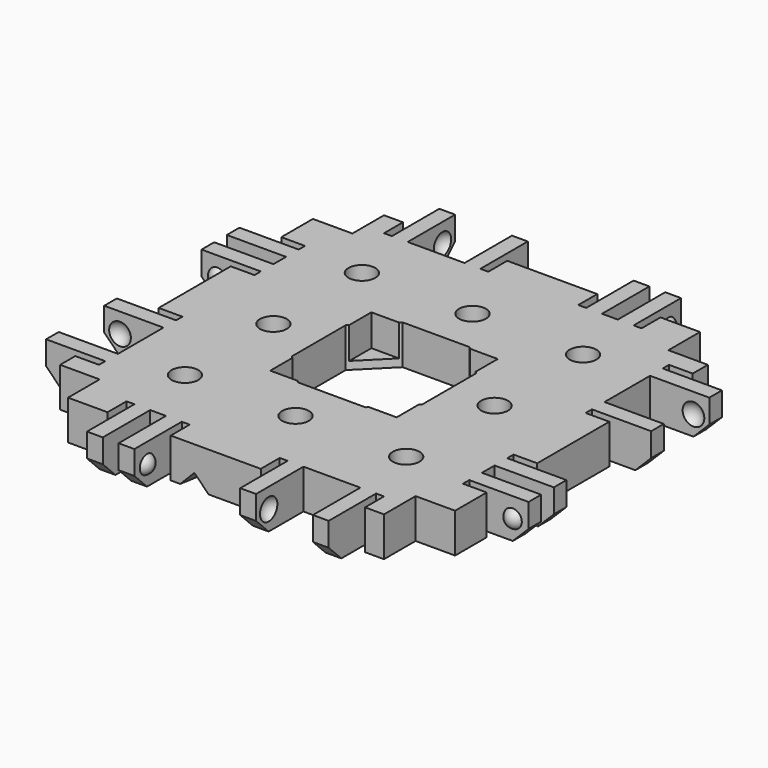
from build123d import *

# Parameters (mm, degrees)
BOX343_W                  = 16
BOX343_H                  = 16
BOX343_DEPTH              = 15
BOX344_W                  = 16.5
BOX344_H                  = 16.5
BOX344_DEPTH              = 15
CHAMFER017_SIZE           = 4
BOX346_W                  = 17
BOX346_H                  = 17
BOX346_DEPTH              = 14
BOX345_W                  = 21
BOX345_H                  = 21
BOX345_DEPTH              = 10
CHAMFER018_SIZE           = 0.95
BOX404_W                  = 10
BOX404_H                  = 15
BOX404_DEPTH              = 10
BOX404_ROLL_ANGLE         = 14.001942
BOX404_PITCH_ANGLE        = -44.136029
BOX404_PLACEMENT_ANGLE    = -99.851076
BOX405_W                  = 10
BOX405_H                  = 15
BOX405_DEPTH              = 10
BOX405_ROLL_ANGLE         = 14.001942
BOX405_PITCH_ANGLE        = -44.136029
BOX405_PLACEMENT_ANGLE    = 170.148924
BOX406_W                  = 10
BOX406_H                  = 15
BOX406_DEPTH              = 10
BOX406_ROLL_ANGLE         = 14.001942
BOX406_PITCH_ANGLE        = -44.136029
BOX406_PLACEMENT_ANGLE    = 80.148924
BOX403_W                  = 10
BOX403_H                  = 15
BOX403_DEPTH              = 10
BOX403_ROLL_ANGLE         = 14.001942
BOX403_PITCH_ANGLE        = -44.136029
BOX403_PLACEMENT_ANGLE    = -9.851076
BOX352_W                  = 13
BOX352_H                  = 40
BOX352_DEPTH              = 10
BOX352_PITCH_ANGLE        = -45
BOX360_W                  = 12
BOX360_H                  = 44
BOX360_DEPTH              = 10
BOX359_W                  = 20
BOX359_H                  = 44
BOX359_DEPTH              = 10
BOX355_W                  = 4
BOX355_H                  = 1
BOX355_DEPTH              = 7
BOX357_W                  = 4
BOX357_H                  = 1
BOX357_DEPTH              = 7
BOX354_W                  = 4
BOX354_H                  = 2
BOX354_DEPTH              = 7
BOX356_W                  = 4
BOX356_H                  = 1
BOX356_DEPTH              = 7
BOX353_W                  = 4
BOX353_H                  = 1
BOX353_DEPTH              = 7
BOX358_W                  = 4
BOX358_H                  = 7.2
BOX358_DEPTH              = 7
BOX348_W                  = 10
BOX348_H                  = 2
BOX348_DEPTH              = 7
BOX349_W                  = 10
BOX349_H                  = 2
BOX349_DEPTH              = 7
BOX350_W                  = 10
BOX350_H                  = 2
BOX350_DEPTH              = 7
BOX351_W                  = 10
BOX351_H                  = 2
BOX351_DEPTH              = 7
BOX347_W                  = 5
BOX347_H                  = 40
BOX347_DEPTH              = 7
BOX363_W                  = 13
BOX363_H                  = 40
BOX363_DEPTH              = 10
BOX363_PITCH_ANGLE        = -45
BOX374_W                  = 12
BOX374_H                  = 44
BOX374_DEPTH              = 10
BOX371_W                  = 20
BOX371_H                  = 44
BOX371_DEPTH              = 10
BOX366_W                  = 4
BOX366_H                  = 1
BOX366_DEPTH              = 7
BOX368_W                  = 4
BOX368_H                  = 1
BOX368_DEPTH              = 7
BOX362_W                  = 4
BOX362_H                  = 2
BOX362_DEPTH              = 7
BOX367_W                  = 4
BOX367_H                  = 1
BOX367_DEPTH              = 7
BOX370_W                  = 4
BOX370_H                  = 1
BOX370_DEPTH              = 7
BOX365_W                  = 4
BOX365_H                  = 7.2
BOX365_DEPTH              = 7
BOX364_W                  = 10
BOX364_H                  = 2
BOX364_DEPTH              = 7
BOX369_W                  = 10
BOX369_H                  = 2
BOX369_DEPTH              = 7
BOX373_W                  = 10
BOX373_H                  = 2
BOX373_DEPTH              = 7
BOX372_W                  = 10
BOX372_H                  = 2
BOX372_DEPTH              = 7
BOX361_W                  = 5
BOX361_H                  = 40
BOX361_DEPTH              = 7
CUT144_PLACEMENT_ANGLE    = 90
BOX384_W                  = 13
BOX384_H                  = 40
BOX384_DEPTH              = 10
BOX384_PITCH_ANGLE        = -45
BOX375_W                  = 12
BOX375_H                  = 44
BOX375_DEPTH              = 10
BOX379_W                  = 20
BOX379_H                  = 44
BOX379_DEPTH              = 10
BOX383_W                  = 4
BOX383_H                  = 1
BOX383_DEPTH              = 7
BOX376_W                  = 4
BOX376_H                  = 1
BOX376_DEPTH              = 7
BOX387_W                  = 4
BOX387_H                  = 2
BOX387_DEPTH              = 7
BOX382_W                  = 4
BOX382_H                  = 1
BOX382_DEPTH              = 7
BOX381_W                  = 4
BOX381_H                  = 1
BOX381_DEPTH              = 7
BOX386_W                  = 4
BOX386_H                  = 7.2
BOX386_DEPTH              = 7
BOX388_W                  = 10
BOX388_H                  = 2
BOX388_DEPTH              = 7
BOX377_W                  = 10
BOX377_H                  = 2
BOX377_DEPTH              = 7
BOX378_W                  = 10
BOX378_H                  = 2
BOX378_DEPTH              = 7
BOX380_W                  = 10
BOX380_H                  = 2
BOX380_DEPTH              = 7
BOX385_W                  = 5
BOX385_H                  = 40
BOX385_DEPTH              = 7
CUT145_PLACEMENT_ANGLE    = 180
BOX392_W                  = 13
BOX392_H                  = 40
BOX392_DEPTH              = 10
BOX392_PITCH_ANGLE        = -45
BOX389_W                  = 12
BOX389_H                  = 44
BOX389_DEPTH              = 10
BOX399_W                  = 20
BOX399_H                  = 44
BOX399_DEPTH              = 10
BOX391_W                  = 4
BOX391_H                  = 1
BOX391_DEPTH              = 7
BOX402_W                  = 4
BOX402_H                  = 1
BOX402_DEPTH              = 7
BOX395_W                  = 4
BOX395_H                  = 2
BOX395_DEPTH              = 7
BOX398_W                  = 4
BOX398_H                  = 1
BOX398_DEPTH              = 7
BOX397_W                  = 4
BOX397_H                  = 1
BOX397_DEPTH              = 7
BOX394_W                  = 4
BOX394_H                  = 7.2
BOX394_DEPTH              = 7
BOX396_W                  = 10
BOX396_H                  = 2
BOX396_DEPTH              = 7
BOX390_W                  = 10
BOX390_H                  = 2
BOX390_DEPTH              = 7
BOX401_W                  = 10
BOX401_H                  = 2
BOX401_DEPTH              = 7
BOX400_W                  = 10
BOX400_H                  = 2
BOX400_DEPTH              = 7
BOX393_W                  = 5
BOX393_H                  = 40
BOX393_DEPTH              = 7
CUT153_PLACEMENT_ANGLE    = -90
BOX340_W                  = 5.8
BOX340_H                  = 5.8
BOX340_DEPTH              = 2
BOX338_W                  = 5.8
BOX338_H                  = 5.8
BOX338_DEPTH              = 2
BOX336_W                  = 5.8
BOX336_H                  = 5.8
BOX336_DEPTH              = 2
BOX335_W                  = 5.8
BOX335_H                  = 5.8
BOX335_DEPTH              = 2
BOX337_W                  = 5.8
BOX337_H                  = 5.8
BOX337_DEPTH              = 2
BOX339_W                  = 5.8
BOX339_H                  = 5.8
BOX339_DEPTH              = 2
BOX341_W                  = 5.8
BOX341_H                  = 5.8
BOX341_DEPTH              = 2
BOX334_W                  = 5.8
BOX334_H                  = 5.8
BOX334_DEPTH              = 2
CYLINDER036_R             = 1.7
CYLINDER036_DEPTH         = 10
CYLINDER034_R             = 1.7
CYLINDER034_DEPTH         = 10
CYLINDER033_R             = 1.7
CYLINDER033_DEPTH         = 10
CYLINDER032_R             = 1.7
CYLINDER032_DEPTH         = 10
CYLINDER031_R             = 1.7
CYLINDER031_DEPTH         = 10
CYLINDER035_R             = 1.7
CYLINDER035_DEPTH         = 10
CYLINDER037_R             = 1.7
CYLINDER037_DEPTH         = 10
CYLINDER030_R             = 1.7
CYLINDER030_DEPTH         = 10
FUSION130_PLACEMENT_ANGLE = 180
BOX342_W                  = 40
BOX342_H                  = 40
BOX342_DEPTH              = 5
CUT159_PLACEMENT_ANGLE    = 180


with BuildPart() as cube282:
    # Box343 → Box343 (new body)
    with BuildSketch(Plane(origin=(12, 12, -13), x_dir=(1, 0, 0), z_dir=(0, 0, 1))):
        with Locations((8, 8)):
            Rectangle(BOX343_W, BOX343_H)
    extrude(amount=BOX343_DEPTH)


with BuildPart() as chamfer017:
    # Box344 → Box344 (new body)
    with BuildSketch(Plane(origin=(11.75, 11.75, -3), x_dir=(1, 0, 0), z_dir=(0, 0, 1))):
        with Locations((8.25, 8.25)):
            Rectangle(BOX344_W, BOX344_H)
    extrude(amount=BOX344_DEPTH)

    # Chamfer017
    chamfer017_edges = [chamfer017.edges().sort_by_distance(p)[0] for p in [
        (11.75, 11.75, 4.5),
        (11.75, 28.25, 4.5),
        (28.25, 11.75, 4.5),
        (28.25, 28.25, 4.5),
    ]]
    chamfer(chamfer017_edges, length=CHAMFER017_SIZE)


with BuildPart() as cube285:
    # Box346 → Box346 (new body)
    with BuildSketch(Plane(origin=(11.5, 11.5, 0), x_dir=(1, 0, 0), z_dir=(0, 0, 1))):
        with Locations((8.5, 8.5)):
            Rectangle(BOX346_W, BOX346_H)
    extrude(amount=BOX346_DEPTH)


with BuildPart() as chamfer018:
    # Box345 → Box345 (new body)
    with BuildSketch(Plane(origin=(9.5, 9.5, 2.1), x_dir=(1, 0, 0), z_dir=(0, 0, 1))):
        with Locations((10.5, 10.5)):
            Rectangle(BOX345_W, BOX345_H)
    extrude(amount=BOX345_DEPTH)

    # Cut134: cut Cube285
    add(cube285.part, mode=Mode.SUBTRACT)

    # Chamfer018
    chamfer018_edges = [chamfer018.edges().sort_by_distance(p)[0] for p in [
        (9.5, 20, 2.1),
        (20, 9.5, 2.1),
        (20, 30.5, 2.1),
        (30.5, 20, 2.1),
        (20, 11.5, 2.1),
        (28.5, 20, 2.1),
        (20, 28.5, 2.1),
        (11.5, 20, 2.1),
    ]]
    chamfer(chamfer018_edges, length=CHAMFER018_SIZE)


with BuildPart() as cube331:
    # Box404 → Box404 (new body)
    with BuildSketch(Plane.XY):
        with Locations((5, 7.5)):
            Rectangle(BOX404_W, BOX404_H)
    extrude(amount=BOX404_DEPTH)


with BuildPart() as cube331_1:
    # Box404 roll: moved
    add(cube331.part.rotate(Axis((0, 0, 0), (1, 0, 0)), BOX404_ROLL_ANGLE))


with BuildPart() as cube331_2:
    # Box404 pitch: moved
    add(cube331_1.part.rotate(Axis((0, 0, 0), (0, 1, 0)), BOX404_PITCH_ANGLE))


with BuildPart() as cube331_3:
    # Box404 placement: moved
    add(cube331_2.part.moved(Location((-6, 16, 1))).rotate(Axis((-6, 16, 1), (0, 0, 1)), BOX404_PLACEMENT_ANGLE))


with BuildPart() as cube332:
    # Box405 → Box405 (new body)
    with BuildSketch(Plane.XY):
        with Locations((5, 7.5)):
            Rectangle(BOX405_W, BOX405_H)
    extrude(amount=BOX405_DEPTH)


with BuildPart() as cube332_1:
    # Box405 roll: moved
    add(cube332.part.rotate(Axis((0, 0, 0), (1, 0, 0)), BOX405_ROLL_ANGLE))


with BuildPart() as cube332_2:
    # Box405 pitch: moved
    add(cube332_1.part.rotate(Axis((0, 0, 0), (0, 1, 0)), BOX405_PITCH_ANGLE))


with BuildPart() as cube332_3:
    # Box405 placement: moved
    add(cube332_2.part.moved(Location((16, 46, 1))).rotate(Axis((16, 46, 1), (0, 0, 1)), BOX405_PLACEMENT_ANGLE))


with BuildPart() as cube333:
    # Box406 → Box406 (new body)
    with BuildSketch(Plane.XY):
        with Locations((5, 7.5)):
            Rectangle(BOX406_W, BOX406_H)
    extrude(amount=BOX406_DEPTH)


with BuildPart() as cube333_1:
    # Box406 roll: moved
    add(cube333.part.rotate(Axis((0, 0, 0), (1, 0, 0)), BOX406_ROLL_ANGLE))


with BuildPart() as cube333_2:
    # Box406 pitch: moved
    add(cube333_1.part.rotate(Axis((0, 0, 0), (0, 1, 0)), BOX406_PITCH_ANGLE))


with BuildPart() as cube333_3:
    # Box406 placement: moved
    add(cube333_2.part.moved(Location((46, 24, 1))).rotate(Axis((46, 24, 1), (0, 0, 1)), BOX406_PLACEMENT_ANGLE))


with BuildPart() as glue_dents003:
    # Box403 → Box403 (new body)
    with BuildSketch(Plane.XY):
        with Locations((5, 7.5)):
            Rectangle(BOX403_W, BOX403_H)
    extrude(amount=BOX403_DEPTH)


with BuildPart() as glue_dents003_1:
    # Box403 roll: moved
    add(glue_dents003.part.rotate(Axis((0, 0, 0), (1, 0, 0)), BOX403_ROLL_ANGLE))


with BuildPart() as glue_dents003_2:
    # Box403 pitch: moved
    add(glue_dents003_1.part.rotate(Axis((0, 0, 0), (0, 1, 0)), BOX403_PITCH_ANGLE))


with BuildPart() as glue_dents003_3:
    # Box403 placement: moved
    add(glue_dents003_2.part.moved(Location((24, -6, 1))).rotate(Axis((24, -6, 1), (0, 0, 1)), BOX403_PLACEMENT_ANGLE))

    # Fusion151: union Cube331, Cube332, Cube333
    add(cube331_3.part)
    add(cube332_3.part)
    add(cube333_3.part)


with BuildPart() as chamfer_cube013:
    # Box352 → Box352 (new body)
    with BuildSketch(Plane.XY):
        with Locations((6.5, 20)):
            Rectangle(BOX352_W, BOX352_H)
    extrude(amount=BOX352_DEPTH)


with BuildPart() as chamfer_cube013_1:
    # Box352 pitch: moved
    add(chamfer_cube013.part.rotate(Axis((0, 0, 0), (0, 1, 0)), BOX352_PITCH_ANGLE))


with BuildPart() as chamfer_cube013_2:
    # Box352 placement: moved
    add(chamfer_cube013_1.part.moved(Location((-11.69, 0, -1.19))))


with BuildPart() as re_level_edge_clip_block027:
    # Box360 → Box360 (new body)
    with BuildSketch(Plane(origin=(-21.5, -2, -7), x_dir=(1, 0, 0), z_dir=(0, 0, 1))):
        with Locations((6, 22)):
            Rectangle(BOX360_W, BOX360_H)
    extrude(amount=BOX360_DEPTH)


with BuildPart() as re_level_edge_clip_block026:
    # Box359 → Box359 (new body)
    with BuildSketch(Plane(origin=(-19, -2, 3), x_dir=(1, 0, 0), z_dir=(0, 0, 1))):
        with Locations((10, 22)):
            Rectangle(BOX359_W, BOX359_H)
    extrude(amount=BOX359_DEPTH)


with BuildPart() as cube293:
    # Box355 → Box355 (new body)
    with BuildSketch(Plane(origin=(-6, 12, -2), x_dir=(1, 0, 0), z_dir=(0, 0, 1))):
        with Locations((2, 0.5)):
            Rectangle(BOX355_W, BOX355_H)
    extrude(amount=BOX355_DEPTH)


with BuildPart() as cube295:
    # Box357 → Box357 (new body)
    with BuildSketch(Plane(origin=(-6, 36.6, -2), x_dir=(1, 0, 0), z_dir=(0, 0, 1))):
        with Locations((2, 0.5)):
            Rectangle(BOX357_W, BOX357_H)
    extrude(amount=BOX357_DEPTH)


with BuildPart() as cube292:
    # Box354 → Box354 (new body)
    with BuildSketch(Plane(origin=(-6, 8, -2), x_dir=(1, 0, 0), z_dir=(0, 0, 1))):
        with Locations((2, 1)):
            Rectangle(BOX354_W, BOX354_H)
    extrude(amount=BOX354_DEPTH)


with BuildPart() as cube294:
    # Box356 → Box356 (new body)
    with BuildSketch(Plane(origin=(-6, 24.4, -2), x_dir=(1, 0, 0), z_dir=(0, 0, 1))):
        with Locations((2, 0.5)):
            Rectangle(BOX356_W, BOX356_H)
    extrude(amount=BOX356_DEPTH)


with BuildPart() as cube291:
    # Box353 → Box353 (new body)
    with BuildSketch(Plane(origin=(-6, 5, -2), x_dir=(1, 0, 0), z_dir=(0, 0, 1))):
        with Locations((2, 0.5)):
            Rectangle(BOX353_W, BOX353_H)
    extrude(amount=BOX353_DEPTH)


with BuildPart() as extra_holes_for_clips013:
    # Box358 → Box358 (new body)
    with BuildSketch(Plane(origin=(-6, 27.4, -2), x_dir=(1, 0, 0), z_dir=(0, 0, 1))):
        with Locations((2, 3.6)):
            Rectangle(BOX358_W, BOX358_H)
    extrude(amount=BOX358_DEPTH)

    # Fusion131: union Cube293, Cube295, Cube292, Cube294, Cube291
    add(cube293.part)
    add(cube295.part)
    add(cube292.part)
    add(cube294.part)
    add(cube291.part)


with BuildPart() as sphere113:
    # Sphere113 → Sphere113 (revolve)
    with BuildSketch(Plane(origin=(-7.5, 34, 0.5), x_dir=(1, 0, 0), z_dir=(0, -1, 0))):
        with BuildLine():
            ThreePointArc((0, -1.5), (1.5, 0), (0, 1.5))
            Line((0, 1.5), (0, -1.5))
        make_face()
    revolve(axis=Axis((-7.5, 34, 0.5), (0, 0, 1)))


with BuildPart() as holes013:
    # Sphere112 → Sphere112 (revolve)
    with BuildSketch(Plane(origin=(-7.5, 28, 0.5), x_dir=(1, 0, 0), z_dir=(0, -1, 0))):
        with BuildLine():
            ThreePointArc((0, -1.5), (1.5, 0), (0, 1.5))
            Line((0, 1.5), (0, -1.5))
        make_face()
    revolve(axis=Axis((-7.5, 28, 0.5), (0, 0, 1)))

    # Fusion133: union Sphere113
    add(sphere113.part)


with BuildPart() as cube287:
    # Box348 → Box348 (new body)
    with BuildSketch(Plane(origin=(-15, 6, -2), x_dir=(1, 0, 0), z_dir=(0, 0, 1))):
        with Locations((5, 1)):
            Rectangle(BOX348_W, BOX348_H)
    extrude(amount=BOX348_DEPTH)


with BuildPart() as cube288:
    # Box349 → Box349 (new body)
    with BuildSketch(Plane(origin=(-15, 10, -2), x_dir=(1, 0, 0), z_dir=(0, 0, 1))):
        with Locations((5, 1)):
            Rectangle(BOX349_W, BOX349_H)
    extrude(amount=BOX349_DEPTH)


with BuildPart() as cube289:
    # Box350 → Box350 (new body)
    with BuildSketch(Plane(origin=(-15, 25.4, -2), x_dir=(1, 0, 0), z_dir=(0, 0, 1))):
        with Locations((5, 1)):
            Rectangle(BOX350_W, BOX350_H)
    extrude(amount=BOX350_DEPTH)


with BuildPart() as cube290:
    # Box351 → Box351 (new body)
    with BuildSketch(Plane(origin=(-15, 34.6, -2), x_dir=(1, 0, 0), z_dir=(0, 0, 1))):
        with Locations((5, 1)):
            Rectangle(BOX351_W, BOX351_H)
    extrude(amount=BOX351_DEPTH)


with BuildPart() as fusion134:
    # Box347 → Box347 (new body)
    with BuildSketch(Plane(origin=(-5, 0, -2), x_dir=(1, 0, 0), z_dir=(0, 0, 1))):
        with Locations((2.5, 20)):
            Rectangle(BOX347_W, BOX347_H)
    extrude(amount=BOX347_DEPTH)

    # Fusion134: union Cube287, Cube288, Cube289, Cube290
    add(cube287.part)
    add(cube288.part)
    add(cube289.part)
    add(cube290.part)


with BuildPart() as sphere111:
    # Sphere111 → Sphere111 (revolve)
    with BuildSketch(Plane(origin=(-7.5, 11.5, 0.5), x_dir=(1, 0, 0), z_dir=(0, -1, 0))):
        with BuildLine():
            ThreePointArc((0, -1.25), (1.25, 0), (0, 1.25))
            Line((0, 1.25), (0, -1.25))
        make_face()
    revolve(axis=Axis((-7.5, 11.5, 0.5), (0, 0, 1)))


with BuildPart() as edge_clips_master003:
    # Sphere110 → Sphere110 (revolve)
    with BuildSketch(Plane(origin=(-7.5, 6.5, 0.5), x_dir=(1, 0, 0), z_dir=(0, -1, 0))):
        with BuildLine():
            ThreePointArc((0, -1.25), (1.25, 0), (0, 1.25))
            Line((0, 1.25), (0, -1.25))
        make_face()
    revolve(axis=Axis((-7.5, 6.5, 0.5), (0, 0, 1)))

    # Fusion132: union Sphere111
    add(sphere111.part)

    # Fusion135: union Fusion134
    add(fusion134.part)

    # Cut135: cut Holes013
    add(holes013.part, mode=Mode.SUBTRACT)

    # Cut136: cut Extra Holes for Clips013
    add(extra_holes_for_clips013.part, mode=Mode.SUBTRACT)

    # Cut137: cut Re-level Edge Clip Block026
    add(re_level_edge_clip_block026.part, mode=Mode.SUBTRACT)

    # Cut138: cut Re-level Edge Clip Block027
    add(re_level_edge_clip_block027.part, mode=Mode.SUBTRACT)

    # Cut139: cut Chamfer Cube013
    add(chamfer_cube013_2.part, mode=Mode.SUBTRACT)


with BuildPart() as chamfer_cube014:
    # Box363 → Box363 (new body)
    with BuildSketch(Plane.XY):
        with Locations((6.5, 20)):
            Rectangle(BOX363_W, BOX363_H)
    extrude(amount=BOX363_DEPTH)


with BuildPart() as chamfer_cube014_1:
    # Box363 pitch: moved
    add(chamfer_cube014.part.rotate(Axis((0, 0, 0), (0, 1, 0)), BOX363_PITCH_ANGLE))


with BuildPart() as chamfer_cube014_2:
    # Box363 placement: moved
    add(chamfer_cube014_1.part.moved(Location((-11.69, 0, -1.19))))


with BuildPart() as re_level_edge_clip_block029:
    # Box374 → Box374 (new body)
    with BuildSketch(Plane(origin=(-21.5, -2, -7), x_dir=(1, 0, 0), z_dir=(0, 0, 1))):
        with Locations((6, 22)):
            Rectangle(BOX374_W, BOX374_H)
    extrude(amount=BOX374_DEPTH)


with BuildPart() as re_level_edge_clip_block028:
    # Box371 → Box371 (new body)
    with BuildSketch(Plane(origin=(-19, -2, 3), x_dir=(1, 0, 0), z_dir=(0, 0, 1))):
        with Locations((10, 22)):
            Rectangle(BOX371_W, BOX371_H)
    extrude(amount=BOX371_DEPTH)


with BuildPart() as cube301:
    # Box366 → Box366 (new body)
    with BuildSketch(Plane(origin=(-6, 12, -2), x_dir=(1, 0, 0), z_dir=(0, 0, 1))):
        with Locations((2, 0.5)):
            Rectangle(BOX366_W, BOX366_H)
    extrude(amount=BOX366_DEPTH)


with BuildPart() as cube303:
    # Box368 → Box368 (new body)
    with BuildSketch(Plane(origin=(-6, 36.6, -2), x_dir=(1, 0, 0), z_dir=(0, 0, 1))):
        with Locations((2, 0.5)):
            Rectangle(BOX368_W, BOX368_H)
    extrude(amount=BOX368_DEPTH)


with BuildPart() as cube298:
    # Box362 → Box362 (new body)
    with BuildSketch(Plane(origin=(-6, 8, -2), x_dir=(1, 0, 0), z_dir=(0, 0, 1))):
        with Locations((2, 1)):
            Rectangle(BOX362_W, BOX362_H)
    extrude(amount=BOX362_DEPTH)


with BuildPart() as cube302:
    # Box367 → Box367 (new body)
    with BuildSketch(Plane(origin=(-6, 24.4, -2), x_dir=(1, 0, 0), z_dir=(0, 0, 1))):
        with Locations((2, 0.5)):
            Rectangle(BOX367_W, BOX367_H)
    extrude(amount=BOX367_DEPTH)


with BuildPart() as cube305:
    # Box370 → Box370 (new body)
    with BuildSketch(Plane(origin=(-6, 5, -2), x_dir=(1, 0, 0), z_dir=(0, 0, 1))):
        with Locations((2, 0.5)):
            Rectangle(BOX370_W, BOX370_H)
    extrude(amount=BOX370_DEPTH)


with BuildPart() as extra_holes_for_clips014:
    # Box365 → Box365 (new body)
    with BuildSketch(Plane(origin=(-6, 27.4, -2), x_dir=(1, 0, 0), z_dir=(0, 0, 1))):
        with Locations((2, 3.6)):
            Rectangle(BOX365_W, BOX365_H)
    extrude(amount=BOX365_DEPTH)

    # Fusion137: union Cube301, Cube303, Cube298, Cube302, Cube305
    add(cube301.part)
    add(cube303.part)
    add(cube298.part)
    add(cube302.part)
    add(cube305.part)


with BuildPart() as sphere116:
    # Sphere116 → Sphere116 (revolve)
    with BuildSketch(Plane(origin=(-7.5, 34, 0.5), x_dir=(1, 0, 0), z_dir=(0, -1, 0))):
        with BuildLine():
            ThreePointArc((0, -1.5), (1.5, 0), (0, 1.5))
            Line((0, 1.5), (0, -1.5))
        make_face()
    revolve(axis=Axis((-7.5, 34, 0.5), (0, 0, 1)))


with BuildPart() as holes014:
    # Sphere117 → Sphere117 (revolve)
    with BuildSketch(Plane(origin=(-7.5, 28, 0.5), x_dir=(1, 0, 0), z_dir=(0, -1, 0))):
        with BuildLine():
            ThreePointArc((0, -1.5), (1.5, 0), (0, 1.5))
            Line((0, 1.5), (0, -1.5))
        make_face()
    revolve(axis=Axis((-7.5, 28, 0.5), (0, 0, 1)))

    # Fusion140: union Sphere116
    add(sphere116.part)


with BuildPart() as cube299:
    # Box364 → Box364 (new body)
    with BuildSketch(Plane(origin=(-15, 6, -2), x_dir=(1, 0, 0), z_dir=(0, 0, 1))):
        with Locations((5, 1)):
            Rectangle(BOX364_W, BOX364_H)
    extrude(amount=BOX364_DEPTH)


with BuildPart() as cube304:
    # Box369 → Box369 (new body)
    with BuildSketch(Plane(origin=(-15, 10, -2), x_dir=(1, 0, 0), z_dir=(0, 0, 1))):
        with Locations((5, 1)):
            Rectangle(BOX369_W, BOX369_H)
    extrude(amount=BOX369_DEPTH)


with BuildPart() as cube307:
    # Box373 → Box373 (new body)
    with BuildSketch(Plane(origin=(-15, 25.4, -2), x_dir=(1, 0, 0), z_dir=(0, 0, 1))):
        with Locations((5, 1)):
            Rectangle(BOX373_W, BOX373_H)
    extrude(amount=BOX373_DEPTH)


with BuildPart() as cube306:
    # Box372 → Box372 (new body)
    with BuildSketch(Plane(origin=(-15, 34.6, -2), x_dir=(1, 0, 0), z_dir=(0, 0, 1))):
        with Locations((5, 1)):
            Rectangle(BOX372_W, BOX372_H)
    extrude(amount=BOX372_DEPTH)


with BuildPart() as fusion138:
    # Box361 → Box361 (new body)
    with BuildSketch(Plane(origin=(-5, 0, -2), x_dir=(1, 0, 0), z_dir=(0, 0, 1))):
        with Locations((2.5, 20)):
            Rectangle(BOX361_W, BOX361_H)
    extrude(amount=BOX361_DEPTH)

    # Fusion138: union Cube299, Cube304, Cube307, Cube306
    add(cube299.part)
    add(cube304.part)
    add(cube307.part)
    add(cube306.part)


with BuildPart() as sphere114:
    # Sphere114 → Sphere114 (revolve)
    with BuildSketch(Plane(origin=(-7.5, 11.5, 0.5), x_dir=(1, 0, 0), z_dir=(0, -1, 0))):
        with BuildLine():
            ThreePointArc((0, -1.25), (1.25, 0), (0, 1.25))
            Line((0, 1.25), (0, -1.25))
        make_face()
    revolve(axis=Axis((-7.5, 11.5, 0.5), (0, 0, 1)))


with BuildPart() as edge_clips010:
    # Sphere115 → Sphere115 (revolve)
    with BuildSketch(Plane(origin=(-7.5, 6.5, 0.5), x_dir=(1, 0, 0), z_dir=(0, -1, 0))):
        with BuildLine():
            ThreePointArc((0, -1.25), (1.25, 0), (0, 1.25))
            Line((0, 1.25), (0, -1.25))
        make_face()
    revolve(axis=Axis((-7.5, 6.5, 0.5), (0, 0, 1)))

    # Fusion139: union Sphere114
    add(sphere114.part)

    # Fusion136: union Fusion138
    add(fusion138.part)

    # Cut140: cut Holes014
    add(holes014.part, mode=Mode.SUBTRACT)

    # Cut141: cut Extra Holes for Clips014
    add(extra_holes_for_clips014.part, mode=Mode.SUBTRACT)

    # Cut142: cut Re-level Edge Clip Block028
    add(re_level_edge_clip_block028.part, mode=Mode.SUBTRACT)

    # Cut143: cut Re-level Edge Clip Block029
    add(re_level_edge_clip_block029.part, mode=Mode.SUBTRACT)

    # Cut144: cut Chamfer Cube014
    add(chamfer_cube014_2.part, mode=Mode.SUBTRACT)


with BuildPart() as edge_clips010_1:
    # Cut144 placement: moved
    add(edge_clips010.part.moved(Location((40, 0, 0))).rotate(Axis((40, 0, 0), (0, 0, 1)), CUT144_PLACEMENT_ANGLE))


with BuildPart() as chamfer_cube015:
    # Box384 → Box384 (new body)
    with BuildSketch(Plane.XY):
        with Locations((6.5, 20)):
            Rectangle(BOX384_W, BOX384_H)
    extrude(amount=BOX384_DEPTH)


with BuildPart() as chamfer_cube015_1:
    # Box384 pitch: moved
    add(chamfer_cube015.part.rotate(Axis((0, 0, 0), (0, 1, 0)), BOX384_PITCH_ANGLE))


with BuildPart() as chamfer_cube015_2:
    # Box384 placement: moved
    add(chamfer_cube015_1.part.moved(Location((-11.69, 0, -1.19))))


with BuildPart() as re_level_edge_clip_block030:
    # Box375 → Box375 (new body)
    with BuildSketch(Plane(origin=(-21.5, -2, -7), x_dir=(1, 0, 0), z_dir=(0, 0, 1))):
        with Locations((6, 22)):
            Rectangle(BOX375_W, BOX375_H)
    extrude(amount=BOX375_DEPTH)


with BuildPart() as re_level_edge_clip_block031:
    # Box379 → Box379 (new body)
    with BuildSketch(Plane(origin=(-19, -2, 3), x_dir=(1, 0, 0), z_dir=(0, 0, 1))):
        with Locations((10, 22)):
            Rectangle(BOX379_W, BOX379_H)
    extrude(amount=BOX379_DEPTH)


with BuildPart() as cube314:
    # Box383 → Box383 (new body)
    with BuildSketch(Plane(origin=(-6, 12, -2), x_dir=(1, 0, 0), z_dir=(0, 0, 1))):
        with Locations((2, 0.5)):
            Rectangle(BOX383_W, BOX383_H)
    extrude(amount=BOX383_DEPTH)


with BuildPart() as cube308:
    # Box376 → Box376 (new body)
    with BuildSketch(Plane(origin=(-6, 36.6, -2), x_dir=(1, 0, 0), z_dir=(0, 0, 1))):
        with Locations((2, 0.5)):
            Rectangle(BOX376_W, BOX376_H)
    extrude(amount=BOX376_DEPTH)


with BuildPart() as cube317:
    # Box387 → Box387 (new body)
    with BuildSketch(Plane(origin=(-6, 8, -2), x_dir=(1, 0, 0), z_dir=(0, 0, 1))):
        with Locations((2, 1)):
            Rectangle(BOX387_W, BOX387_H)
    extrude(amount=BOX387_DEPTH)


with BuildPart() as cube313:
    # Box382 → Box382 (new body)
    with BuildSketch(Plane(origin=(-6, 24.4, -2), x_dir=(1, 0, 0), z_dir=(0, 0, 1))):
        with Locations((2, 0.5)):
            Rectangle(BOX382_W, BOX382_H)
    extrude(amount=BOX382_DEPTH)


with BuildPart() as cube312:
    # Box381 → Box381 (new body)
    with BuildSketch(Plane(origin=(-6, 5, -2), x_dir=(1, 0, 0), z_dir=(0, 0, 1))):
        with Locations((2, 0.5)):
            Rectangle(BOX381_W, BOX381_H)
    extrude(amount=BOX381_DEPTH)


with BuildPart() as extra_holes_for_clips015:
    # Box386 → Box386 (new body)
    with BuildSketch(Plane(origin=(-6, 27.4, -2), x_dir=(1, 0, 0), z_dir=(0, 0, 1))):
        with Locations((2, 3.6)):
            Rectangle(BOX386_W, BOX386_H)
    extrude(amount=BOX386_DEPTH)

    # Fusion143: union Cube314, Cube308, Cube317, Cube313, Cube312
    add(cube314.part)
    add(cube308.part)
    add(cube317.part)
    add(cube313.part)
    add(cube312.part)


with BuildPart() as sphere118:
    # Sphere118 → Sphere118 (revolve)
    with BuildSketch(Plane(origin=(-7.5, 34, 0.5), x_dir=(1, 0, 0), z_dir=(0, -1, 0))):
        with BuildLine():
            ThreePointArc((0, -1.5), (1.5, 0), (0, 1.5))
            Line((0, 1.5), (0, -1.5))
        make_face()
    revolve(axis=Axis((-7.5, 34, 0.5), (0, 0, 1)))


with BuildPart() as holes015:
    # Sphere119 → Sphere119 (revolve)
    with BuildSketch(Plane(origin=(-7.5, 28, 0.5), x_dir=(1, 0, 0), z_dir=(0, -1, 0))):
        with BuildLine():
            ThreePointArc((0, -1.5), (1.5, 0), (0, 1.5))
            Line((0, 1.5), (0, -1.5))
        make_face()
    revolve(axis=Axis((-7.5, 28, 0.5), (0, 0, 1)))

    # Fusion141: union Sphere118
    add(sphere118.part)


with BuildPart() as cube318:
    # Box388 → Box388 (new body)
    with BuildSketch(Plane(origin=(-15, 6, -2), x_dir=(1, 0, 0), z_dir=(0, 0, 1))):
        with Locations((5, 1)):
            Rectangle(BOX388_W, BOX388_H)
    extrude(amount=BOX388_DEPTH)


with BuildPart() as cube309:
    # Box377 → Box377 (new body)
    with BuildSketch(Plane(origin=(-15, 10, -2), x_dir=(1, 0, 0), z_dir=(0, 0, 1))):
        with Locations((5, 1)):
            Rectangle(BOX377_W, BOX377_H)
    extrude(amount=BOX377_DEPTH)


with BuildPart() as cube310:
    # Box378 → Box378 (new body)
    with BuildSketch(Plane(origin=(-15, 25.4, -2), x_dir=(1, 0, 0), z_dir=(0, 0, 1))):
        with Locations((5, 1)):
            Rectangle(BOX378_W, BOX378_H)
    extrude(amount=BOX378_DEPTH)


with BuildPart() as cube311:
    # Box380 → Box380 (new body)
    with BuildSketch(Plane(origin=(-15, 34.6, -2), x_dir=(1, 0, 0), z_dir=(0, 0, 1))):
        with Locations((5, 1)):
            Rectangle(BOX380_W, BOX380_H)
    extrude(amount=BOX380_DEPTH)


with BuildPart() as fusion144:
    # Box385 → Box385 (new body)
    with BuildSketch(Plane(origin=(-5, 0, -2), x_dir=(1, 0, 0), z_dir=(0, 0, 1))):
        with Locations((2.5, 20)):
            Rectangle(BOX385_W, BOX385_H)
    extrude(amount=BOX385_DEPTH)

    # Fusion144: union Cube318, Cube309, Cube310, Cube311
    add(cube318.part)
    add(cube309.part)
    add(cube310.part)
    add(cube311.part)


with BuildPart() as sphere120:
    # Sphere120 → Sphere120 (revolve)
    with BuildSketch(Plane(origin=(-7.5, 11.5, 0.5), x_dir=(1, 0, 0), z_dir=(0, -1, 0))):
        with BuildLine():
            ThreePointArc((0, -1.25), (1.25, 0), (0, 1.25))
            Line((0, 1.25), (0, -1.25))
        make_face()
    revolve(axis=Axis((-7.5, 11.5, 0.5), (0, 0, 1)))


with BuildPart() as edge_clips011:
    # Sphere121 → Sphere121 (revolve)
    with BuildSketch(Plane(origin=(-7.5, 6.5, 0.5), x_dir=(1, 0, 0), z_dir=(0, -1, 0))):
        with BuildLine():
            ThreePointArc((0, -1.25), (1.25, 0), (0, 1.25))
            Line((0, 1.25), (0, -1.25))
        make_face()
    revolve(axis=Axis((-7.5, 6.5, 0.5), (0, 0, 1)))

    # Fusion142: union Sphere120
    add(sphere120.part)

    # Fusion145: union Fusion144
    add(fusion144.part)

    # Cut146: cut Holes015
    add(holes015.part, mode=Mode.SUBTRACT)

    # Cut147: cut Extra Holes for Clips015
    add(extra_holes_for_clips015.part, mode=Mode.SUBTRACT)

    # Cut148: cut Re-level Edge Clip Block031
    add(re_level_edge_clip_block031.part, mode=Mode.SUBTRACT)

    # Cut149: cut Re-level Edge Clip Block030
    add(re_level_edge_clip_block030.part, mode=Mode.SUBTRACT)

    # Cut145: cut Chamfer Cube015
    add(chamfer_cube015_2.part, mode=Mode.SUBTRACT)


with BuildPart() as edge_clips011_1:
    # Cut145 placement: moved
    add(edge_clips011.part.moved(Location((40, 40, 0))).rotate(Axis((40, 40, 0), (0, 0, 1)), CUT145_PLACEMENT_ANGLE))


with BuildPart() as chamfer_cube016:
    # Box392 → Box392 (new body)
    with BuildSketch(Plane.XY):
        with Locations((6.5, 20)):
            Rectangle(BOX392_W, BOX392_H)
    extrude(amount=BOX392_DEPTH)


with BuildPart() as chamfer_cube016_1:
    # Box392 pitch: moved
    add(chamfer_cube016.part.rotate(Axis((0, 0, 0), (0, 1, 0)), BOX392_PITCH_ANGLE))


with BuildPart() as chamfer_cube016_2:
    # Box392 placement: moved
    add(chamfer_cube016_1.part.moved(Location((-11.69, 0, -1.19))))


with BuildPart() as re_level_edge_clip_block032:
    # Box389 → Box389 (new body)
    with BuildSketch(Plane(origin=(-21.5, -2, -7), x_dir=(1, 0, 0), z_dir=(0, 0, 1))):
        with Locations((6, 22)):
            Rectangle(BOX389_W, BOX389_H)
    extrude(amount=BOX389_DEPTH)


with BuildPart() as re_level_edge_clip_block033:
    # Box399 → Box399 (new body)
    with BuildSketch(Plane(origin=(-19, -2, 3), x_dir=(1, 0, 0), z_dir=(0, 0, 1))):
        with Locations((10, 22)):
            Rectangle(BOX399_W, BOX399_H)
    extrude(amount=BOX399_DEPTH)


with BuildPart() as cube320:
    # Box391 → Box391 (new body)
    with BuildSketch(Plane(origin=(-6, 12, -2), x_dir=(1, 0, 0), z_dir=(0, 0, 1))):
        with Locations((2, 0.5)):
            Rectangle(BOX391_W, BOX391_H)
    extrude(amount=BOX391_DEPTH)


with BuildPart() as cube329:
    # Box402 → Box402 (new body)
    with BuildSketch(Plane(origin=(-6, 36.6, -2), x_dir=(1, 0, 0), z_dir=(0, 0, 1))):
        with Locations((2, 0.5)):
            Rectangle(BOX402_W, BOX402_H)
    extrude(amount=BOX402_DEPTH)


with BuildPart() as cube323:
    # Box395 → Box395 (new body)
    with BuildSketch(Plane(origin=(-6, 8, -2), x_dir=(1, 0, 0), z_dir=(0, 0, 1))):
        with Locations((2, 1)):
            Rectangle(BOX395_W, BOX395_H)
    extrude(amount=BOX395_DEPTH)


with BuildPart() as cube326:
    # Box398 → Box398 (new body)
    with BuildSketch(Plane(origin=(-6, 24.4, -2), x_dir=(1, 0, 0), z_dir=(0, 0, 1))):
        with Locations((2, 0.5)):
            Rectangle(BOX398_W, BOX398_H)
    extrude(amount=BOX398_DEPTH)


with BuildPart() as cube325:
    # Box397 → Box397 (new body)
    with BuildSketch(Plane(origin=(-6, 5, -2), x_dir=(1, 0, 0), z_dir=(0, 0, 1))):
        with Locations((2, 0.5)):
            Rectangle(BOX397_W, BOX397_H)
    extrude(amount=BOX397_DEPTH)


with BuildPart() as extra_holes_for_clips016:
    # Box394 → Box394 (new body)
    with BuildSketch(Plane(origin=(-6, 27.4, -2), x_dir=(1, 0, 0), z_dir=(0, 0, 1))):
        with Locations((2, 3.6)):
            Rectangle(BOX394_W, BOX394_H)
    extrude(amount=BOX394_DEPTH)

    # Fusion147: union Cube320, Cube329, Cube323, Cube326, Cube325
    add(cube320.part)
    add(cube329.part)
    add(cube323.part)
    add(cube326.part)
    add(cube325.part)


with BuildPart() as sphere125:
    # Sphere125 → Sphere125 (revolve)
    with BuildSketch(Plane(origin=(-7.5, 34, 0.5), x_dir=(1, 0, 0), z_dir=(0, -1, 0))):
        with BuildLine():
            ThreePointArc((0, -1.5), (1.5, 0), (0, 1.5))
            Line((0, 1.5), (0, -1.5))
        make_face()
    revolve(axis=Axis((-7.5, 34, 0.5), (0, 0, 1)))


with BuildPart() as holes016:
    # Sphere123 → Sphere123 (revolve)
    with BuildSketch(Plane(origin=(-7.5, 28, 0.5), x_dir=(1, 0, 0), z_dir=(0, -1, 0))):
        with BuildLine():
            ThreePointArc((0, -1.5), (1.5, 0), (0, 1.5))
            Line((0, 1.5), (0, -1.5))
        make_face()
    revolve(axis=Axis((-7.5, 28, 0.5), (0, 0, 1)))

    # Fusion149: union Sphere125
    add(sphere125.part)


with BuildPart() as cube324:
    # Box396 → Box396 (new body)
    with BuildSketch(Plane(origin=(-15, 6, -2), x_dir=(1, 0, 0), z_dir=(0, 0, 1))):
        with Locations((5, 1)):
            Rectangle(BOX396_W, BOX396_H)
    extrude(amount=BOX396_DEPTH)


with BuildPart() as cube319:
    # Box390 → Box390 (new body)
    with BuildSketch(Plane(origin=(-15, 10, -2), x_dir=(1, 0, 0), z_dir=(0, 0, 1))):
        with Locations((5, 1)):
            Rectangle(BOX390_W, BOX390_H)
    extrude(amount=BOX390_DEPTH)


with BuildPart() as cube328:
    # Box401 → Box401 (new body)
    with BuildSketch(Plane(origin=(-15, 25.4, -2), x_dir=(1, 0, 0), z_dir=(0, 0, 1))):
        with Locations((5, 1)):
            Rectangle(BOX401_W, BOX401_H)
    extrude(amount=BOX401_DEPTH)


with BuildPart() as cube327:
    # Box400 → Box400 (new body)
    with BuildSketch(Plane(origin=(-15, 34.6, -2), x_dir=(1, 0, 0), z_dir=(0, 0, 1))):
        with Locations((5, 1)):
            Rectangle(BOX400_W, BOX400_H)
    extrude(amount=BOX400_DEPTH)


with BuildPart() as fusion148:
    # Box393 → Box393 (new body)
    with BuildSketch(Plane(origin=(-5, 0, -2), x_dir=(1, 0, 0), z_dir=(0, 0, 1))):
        with Locations((2.5, 20)):
            Rectangle(BOX393_W, BOX393_H)
    extrude(amount=BOX393_DEPTH)

    # Fusion148: union Cube324, Cube319, Cube328, Cube327
    add(cube324.part)
    add(cube319.part)
    add(cube328.part)
    add(cube327.part)


with BuildPart() as sphere124:
    # Sphere124 → Sphere124 (revolve)
    with BuildSketch(Plane(origin=(-7.5, 11.5, 0.5), x_dir=(1, 0, 0), z_dir=(0, -1, 0))):
        with BuildLine():
            ThreePointArc((0, -1.25), (1.25, 0), (0, 1.25))
            Line((0, 1.25), (0, -1.25))
        make_face()
    revolve(axis=Axis((-7.5, 11.5, 0.5), (0, 0, 1)))


with BuildPart() as fusion152:
    # Sphere122 → Sphere122 (revolve)
    with BuildSketch(Plane(origin=(-7.5, 6.5, 0.5), x_dir=(1, 0, 0), z_dir=(0, -1, 0))):
        with BuildLine():
            ThreePointArc((0, -1.25), (1.25, 0), (0, 1.25))
            Line((0, 1.25), (0, -1.25))
        make_face()
    revolve(axis=Axis((-7.5, 6.5, 0.5), (0, 0, 1)))

    # Fusion150: union Sphere124
    add(sphere124.part)

    # Fusion146: union Fusion148
    add(fusion148.part)

    # Cut154: cut Holes016
    add(holes016.part, mode=Mode.SUBTRACT)

    # Cut150: cut Extra Holes for Clips016
    add(extra_holes_for_clips016.part, mode=Mode.SUBTRACT)

    # Cut151: cut Re-level Edge Clip Block033
    add(re_level_edge_clip_block033.part, mode=Mode.SUBTRACT)

    # Cut152: cut Re-level Edge Clip Block032
    add(re_level_edge_clip_block032.part, mode=Mode.SUBTRACT)

    # Cut153: cut Chamfer Cube016
    add(chamfer_cube016_2.part, mode=Mode.SUBTRACT)


with BuildPart() as fusion152_1:
    # Cut153 placement: moved
    add(fusion152.part.moved(Location((0, 40, 0))).rotate(Axis((0, 40, 0), (0, 0, 1)), CUT153_PLACEMENT_ANGLE))

    # Fusion152: union Edge Clips Master003, Edge Clips010, Edge Clips011
    add(edge_clips_master003.part)
    add(edge_clips010_1.part)
    add(edge_clips011_1.part)


with BuildPart() as box340:
    # Box340 → Box340 (new body)
    with BuildSketch(Plane(origin=(31.1, 31.1, 4.6), x_dir=(1, 0, 0), z_dir=(0, 0, 1))):
        with Locations((2.9, 2.9)):
            Rectangle(BOX340_W, BOX340_H)
    extrude(amount=BOX340_DEPTH)


with BuildPart() as box338:
    # Box338 → Box338 (new body)
    with BuildSketch(Plane(origin=(3.1, 31.1, 4.6), x_dir=(1, 0, 0), z_dir=(0, 0, 1))):
        with Locations((2.9, 2.9)):
            Rectangle(BOX338_W, BOX338_H)
    extrude(amount=BOX338_DEPTH)


with BuildPart() as box336:
    # Box336 → Box336 (new body)
    with BuildSketch(Plane(origin=(31.1, 3.1, 4.6), x_dir=(1, 0, 0), z_dir=(0, 0, 1))):
        with Locations((2.9, 2.9)):
            Rectangle(BOX336_W, BOX336_H)
    extrude(amount=BOX336_DEPTH)


with BuildPart() as box335:
    # Box335 → Box335 (new body)
    with BuildSketch(Plane(origin=(17.1, 3.1, 4.6), x_dir=(1, 0, 0), z_dir=(0, 0, 1))):
        with Locations((2.9, 2.9)):
            Rectangle(BOX335_W, BOX335_H)
    extrude(amount=BOX335_DEPTH)


with BuildPart() as box337:
    # Box337 → Box337 (new body)
    with BuildSketch(Plane(origin=(3.1, 3.1, 4.6), x_dir=(1, 0, 0), z_dir=(0, 0, 1))):
        with Locations((2.9, 2.9)):
            Rectangle(BOX337_W, BOX337_H)
    extrude(amount=BOX337_DEPTH)


with BuildPart() as box339:
    # Box339 → Box339 (new body)
    with BuildSketch(Plane(origin=(17.1, 31.1, 4.6), x_dir=(1, 0, 0), z_dir=(0, 0, 1))):
        with Locations((2.9, 2.9)):
            Rectangle(BOX339_W, BOX339_H)
    extrude(amount=BOX339_DEPTH)


with BuildPart() as box341:
    # Box341 → Box341 (new body)
    with BuildSketch(Plane(origin=(3.1, 17.1, 4.6), x_dir=(1, 0, 0), z_dir=(0, 0, 1))):
        with Locations((2.9, 2.9)):
            Rectangle(BOX341_W, BOX341_H)
    extrude(amount=BOX341_DEPTH)


with BuildPart() as square_nut_hole001:
    # Box334 → Box334 (new body)
    with BuildSketch(Plane(origin=(31.1, 17.1, 4.6), x_dir=(1, 0, 0), z_dir=(0, 0, 1))):
        with Locations((2.9, 2.9)):
            Rectangle(BOX334_W, BOX334_H)
    extrude(amount=BOX334_DEPTH)

    # Fusion127: union Box340, Box338, Box336, Box335, Box337, Box339, Box341
    add(box340.part)
    add(box338.part)
    add(box336.part)
    add(box335.part)
    add(box337.part)
    add(box339.part)
    add(box341.part)


with BuildPart() as cylinder036:
    # Cylinder036 → Cylinder036 (new body)
    with BuildSketch(Plane(origin=(34, 6, 0), x_dir=(1, 0, 0), z_dir=(0, 0, 1))):
        Circle(CYLINDER036_R)
    extrude(amount=CYLINDER036_DEPTH)


with BuildPart() as cylinder034:
    # Cylinder034 → Cylinder034 (new body)
    with BuildSketch(Plane(origin=(6, 20, 0), x_dir=(1, 0, 0), z_dir=(0, 0, 1))):
        Circle(CYLINDER034_R)
    extrude(amount=CYLINDER034_DEPTH)


with BuildPart() as cylinder033:
    # Cylinder033 → Cylinder033 (new body)
    with BuildSketch(Plane(origin=(6, 34, 0), x_dir=(1, 0, 0), z_dir=(0, 0, 1))):
        Circle(CYLINDER033_R)
    extrude(amount=CYLINDER033_DEPTH)


with BuildPart() as cylinder032:
    # Cylinder032 → Cylinder032 (new body)
    with BuildSketch(Plane(origin=(20, 34, 0), x_dir=(1, 0, 0), z_dir=(0, 0, 1))):
        Circle(CYLINDER032_R)
    extrude(amount=CYLINDER032_DEPTH)


with BuildPart() as cylinder031:
    # Cylinder031 → Cylinder031 (new body)
    with BuildSketch(Plane(origin=(34, 34, 0), x_dir=(1, 0, 0), z_dir=(0, 0, 1))):
        Circle(CYLINDER031_R)
    extrude(amount=CYLINDER031_DEPTH)


with BuildPart() as cylinder035:
    # Cylinder035 → Cylinder035 (new body)
    with BuildSketch(Plane(origin=(34, 20, 0), x_dir=(1, 0, 0), z_dir=(0, 0, 1))):
        Circle(CYLINDER035_R)
    extrude(amount=CYLINDER035_DEPTH)


with BuildPart() as cylinder037:
    # Cylinder037 → Cylinder037 (new body)
    with BuildSketch(Plane(origin=(20, 6, 0), x_dir=(1, 0, 0), z_dir=(0, 0, 1))):
        Circle(CYLINDER037_R)
    extrude(amount=CYLINDER037_DEPTH)


with BuildPart() as square_nut_screw_holes001:
    # Cylinder030 → Cylinder030 (new body)
    with BuildSketch(Plane(origin=(6, 6, 0), x_dir=(1, 0, 0), z_dir=(0, 0, 1))):
        Circle(CYLINDER030_R)
    extrude(amount=CYLINDER030_DEPTH)

    # Fusion128: union Cylinder036, Cylinder034, Cylinder033, Cylinder032, Cylinder031, Cylinder035, Cylinder037
    add(cylinder036.part)
    add(cylinder034.part)
    add(cylinder033.part)
    add(cylinder032.part)
    add(cylinder031.part)
    add(cylinder035.part)
    add(cylinder037.part)


with BuildPart() as obj1:
    # Sphere103 → Sphere103 (revolve)
    with BuildSketch(Plane(origin=(6, 6, 2.4), x_dir=(1, 0, 0), z_dir=(0, -1, 0))):
        with BuildLine():
            ThreePointArc((0, -3.35), (3.35, 0), (0, 3.35))
            Line((0, 3.35), (0, -3.35))
        make_face()
    revolve(axis=Axis((6, 6, 2.4), (0, 0, 1)))


with BuildPart() as sphere104:
    # Sphere104 → Sphere104 (revolve)
    with BuildSketch(Plane(origin=(34, 34, 2.4), x_dir=(1, 0, 0), z_dir=(0, -1, 0))):
        with BuildLine():
            ThreePointArc((0, -3.35), (3.35, 0), (0, 3.35))
            Line((0, 3.35), (0, -3.35))
        make_face()
    revolve(axis=Axis((34, 34, 2.4), (0, 0, 1)))


with BuildPart() as sphere106:
    # Sphere106 → Sphere106 (revolve)
    with BuildSketch(Plane(origin=(20, 6, 2.4), x_dir=(1, 0, 0), z_dir=(0, -1, 0))):
        with BuildLine():
            ThreePointArc((0, -3.35), (3.35, 0), (0, 3.35))
            Line((0, 3.35), (0, -3.35))
        make_face()
    revolve(axis=Axis((20, 6, 2.4), (0, 0, 1)))


with BuildPart() as sphere107:
    # Sphere107 → Sphere107 (revolve)
    with BuildSketch(Plane(origin=(6, 34, 2.4), x_dir=(1, 0, 0), z_dir=(0, -1, 0))):
        with BuildLine():
            ThreePointArc((0, -3.35), (3.35, 0), (0, 3.35))
            Line((0, 3.35), (0, -3.35))
        make_face()
    revolve(axis=Axis((6, 34, 2.4), (0, 0, 1)))


with BuildPart() as sphere108:
    # Sphere108 → Sphere108 (revolve)
    with BuildSketch(Plane(origin=(6, 20, 2.4), x_dir=(1, 0, 0), z_dir=(0, -1, 0))):
        with BuildLine():
            ThreePointArc((0, -3.35), (3.35, 0), (0, 3.35))
            Line((0, 3.35), (0, -3.35))
        make_face()
    revolve(axis=Axis((6, 20, 2.4), (0, 0, 1)))


with BuildPart() as sphere109:
    # Sphere109 → Sphere109 (revolve)
    with BuildSketch(Plane(origin=(20, 34, 2.4), x_dir=(1, 0, 0), z_dir=(0, -1, 0))):
        with BuildLine():
            ThreePointArc((0, -3.35), (3.35, 0), (0, 3.35))
            Line((0, 3.35), (0, -3.35))
        make_face()
    revolve(axis=Axis((20, 34, 2.4), (0, 0, 1)))


with BuildPart() as sphere105:
    # Sphere105 → Sphere105 (revolve)
    with BuildSketch(Plane(origin=(34, 6, 2.4), x_dir=(1, 0, 0), z_dir=(0, -1, 0))):
        with BuildLine():
            ThreePointArc((0, -3.35), (3.35, 0), (0, 3.35))
            Line((0, 3.35), (0, -3.35))
        make_face()
    revolve(axis=Axis((34, 6, 2.4), (0, 0, 1)))


with BuildPart() as fusion130:
    # Sphere102 → Sphere102 (revolve)
    with BuildSketch(Plane(origin=(34, 20, 2.4), x_dir=(1, 0, 0), z_dir=(0, -1, 0))):
        with BuildLine():
            ThreePointArc((0, -3.35), (3.35, 0), (0, 3.35))
            Line((0, 3.35), (0, -3.35))
        make_face()
    revolve(axis=Axis((34, 20, 2.4), (0, 0, 1)))

    # Fusion129: union obj1, Sphere104, Sphere106, Sphere107, Sphere108, Sphere109, Sphere105
    add(obj1.part)
    add(sphere104.part)
    add(sphere106.part)
    add(sphere107.part)
    add(sphere108.part)
    add(sphere109.part)
    add(sphere105.part)

    # Fusion130: union Square Nut Hole001, Square Nut Screw Holes001
    add(square_nut_hole001.part)
    add(square_nut_screw_holes001.part)


with BuildPart() as fusion130_1:
    # Fusion130 placement: moved
    add(fusion130.part.moved(Location((0, 40, 6.7))).rotate(Axis((0, 40, 6.7), (1, 0, 0)), FUSION130_PLACEMENT_ANGLE))


with BuildPart() as nut_plate003:
    # Box342 → Box342 (new body)
    with BuildSketch(Plane.XY.offset(-2)):
        with Locations((20, 20)):
            Rectangle(BOX342_W, BOX342_H)
    extrude(amount=BOX342_DEPTH)

    # Cut155: cut Fusion130
    add(fusion130_1.part, mode=Mode.SUBTRACT)

    # Fusion153: union Fusion152
    add(fusion152_1.part)

    # Cut156: cut Glue Dents003
    add(glue_dents003_3.part, mode=Mode.SUBTRACT)

    # Cut157: cut Chamfer018
    add(chamfer018.part, mode=Mode.SUBTRACT)

    # Cut158: cut Chamfer017
    add(chamfer017.part, mode=Mode.SUBTRACT)

    # Cut159: cut Cube282
    add(cube282.part, mode=Mode.SUBTRACT)


with BuildPart() as nut_plate003_1:
    # Cut159 placement: moved
    add(nut_plate003.part.moved(Location((29.98, 40, 7))).rotate(Axis((29.98, 40, 7), (1, 0, 0)), CUT159_PLACEMENT_ANGLE))


solid = nut_plate003_1.part
